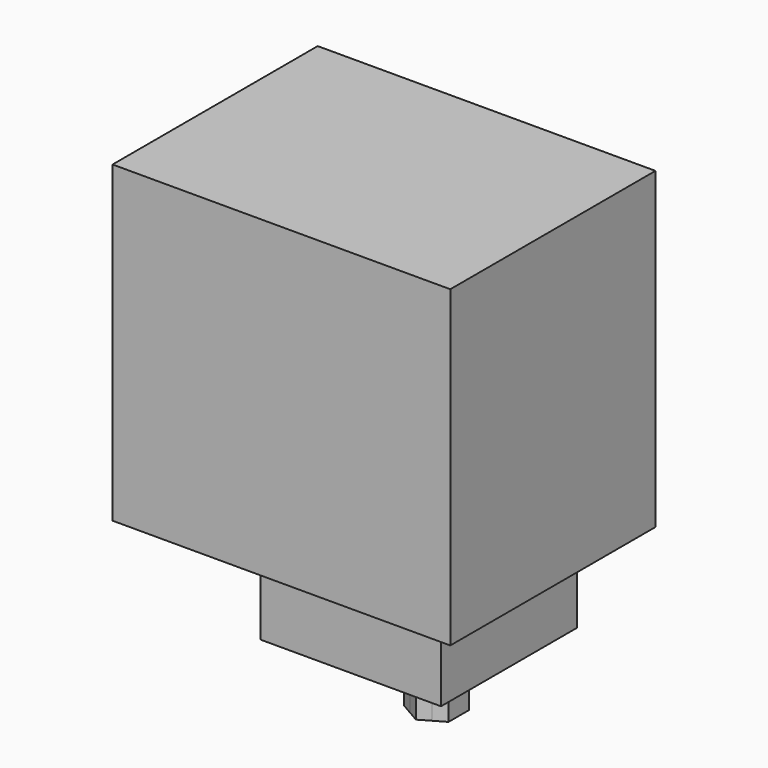
from build123d import *

# Parameters (mm, degrees)
F0_W     = 37.8
F0_H     = 28.7
F1_DEPTH = 35.1
F2_R     = 2.5
F3_DEPTH = 1.8
F4_W     = 20.2
F4_H     = 19
F4_R     = 2.5
F5_DEPTH = 11
F7_DEPTH = 8.3


with BuildPart() as f1:
    # F0 (on Top) → F1 (new body)
    with BuildSketch(Plane.XY):
        Rectangle(F0_W, F0_H)
    extrude(amount=F1_DEPTH)

    # F2 (on face) → F3 (join)
    with BuildSketch(Plane(origin=(0, 0, 0), x_dir=(1, 0, 0), z_dir=(0, 0, -1))):
        with Locations((0, -7.35)):
            Circle(F2_R)
    extrude(amount=F3_DEPTH)


with BuildPart() as f5:
    # F4 (on face) → F5 (new body)
    with BuildSketch(Plane(origin=(0, 0, -1.8), x_dir=(1, 0, 0), z_dir=(0, 0, -1))):
        with Locations((0, -4.85)):
            Rectangle(F4_W, F4_H)
        with Locations((0, -7.35)):
            Circle(F4_R, mode=Mode.SUBTRACT)
    extrude(amount=F5_DEPTH)


with BuildPart() as f7:
    # F6 (on face) → F7 (new body)
    with BuildSketch(Plane(origin=(0, 0, -12.8), x_dir=(1, 0, 0), z_dir=(0, 0, -1))):
        with BuildLine():
            Line((0, -10.2367513459), (1.2500000382, -9.5150634874))
            ThreePointArc((1.2500000382, -9.5150634874), (6e-09, -9.85), (-1.2500000279, -9.5150634934))
            Line((-1.2500000279, -9.5150634934), (0, -10.2367513459))
        make_face()
        with BuildLine():
            Line((2.5, -8.793375673), (2.5, -7.35))
            ThreePointArc((2.5, -7.35), (2.1650635205, -8.5999999809), (1.2500000382, -9.5150634874))
            Line((1.2500000382, -9.5150634874), (2.5, -8.793375673))
        make_face()
        with BuildLine():
            Line((-2.5, -8.793375673), (-1.2500000279, -9.5150634934))
            ThreePointArc((-1.2500000279, -9.5150634934), (-2.1650635175, -8.5999999861), (-2.5, -7.35))
            Line((-2.5, -7.35), (-2.5, -8.793375673))
        make_face()
        with BuildLine():
            ThreePointArc((1.2500000021, -5.1849364918), (2.1650635101, -6.1000000011), (2.5, -7.35))
            Line((2.5, -7.35), (2.5, -5.906624327))
            Line((2.5, -5.906624327), (1.2500000021, -5.1849364918))
        make_face()
        with BuildLine():
            ThreePointArc((-2.5, -7.35), (-2.1650635361, -6.1000000462), (-1.2500000924, -5.1849365439))
            Line((-1.2500000924, -5.1849365439), (-2.5, -5.906624327))
            Line((-2.5, -5.906624327), (-2.5, -7.35))
        make_face()
        with BuildLine():
            ThreePointArc((1.2500000382, -9.5150634874), (2.1650635205, -8.5999999809), (2.5, -7.35))
            ThreePointArc((2.5, -7.35), (2.1650635101, -6.1000000011), (1.2500000021, -5.1849364918))
            ThreePointArc((1.2500000021, -5.1849364918), (-5.21e-08, -4.85), (-1.2500000924, -5.1849365439))
            ThreePointArc((-1.2500000924, -5.1849365439), (-2.1650635361, -6.1000000462), (-2.5, -7.35))
            ThreePointArc((-2.5, -7.35), (-2.1650635175, -8.5999999861), (-1.2500000279, -9.5150634934))
            ThreePointArc((-1.2500000279, -9.5150634934), (6e-09, -9.85), (1.2500000382, -9.5150634874))
        make_face()
        with BuildLine():
            ThreePointArc((-1.2500000924, -5.1849365439), (-5.21e-08, -4.85), (1.2500000021, -5.1849364918))
            Line((1.2500000021, -5.1849364918), (0, -4.4632486541))
            Line((0, -4.4632486541), (-1.2500000924, -5.1849365439))
        make_face()
    extrude(amount=F7_DEPTH)


solid = Compound([f1.part, f5.part, f7.part])
